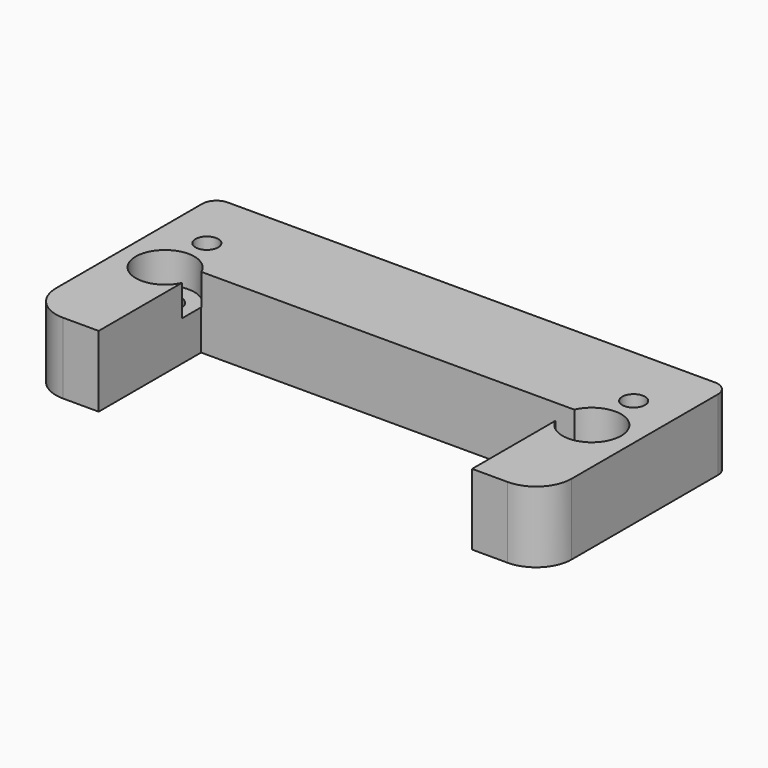
from build123d import *

# Parameters (mm, degrees)
F1_DEPTH       = 10
F3_D           = 3.2
F3_DEPTH       = 14.25
F3_TIP         = 0.9613769904
F4_R           = 5
F5_R           = 2
F7_D           = 4.4
F7_CBORE_D     = 8.25
F7_CBORE_DEPTH = 4.4


with BuildPart() as f1:
    # F0 (on Top) → F1 (new body)
    with BuildSketch(Plane.XY):
        Polygon((-36.25, 16.35), (-36.25, -16.35), (-26.25, -16.35), (-26.25, 1.65), (26.25, 1.65), (26.25, -16.35), (36.25, -16.35), (36.25, 16.35), align=None)
    extrude(amount=F1_DEPTH)

    # F3
    with Locations(Plane.XY.offset(10)):
        with Locations((-30, 7.35), (30, 7.35)):
            Hole(F3_D / 2, depth=F3_DEPTH)
            with Locations((0, 0, -(F3_DEPTH + F3_TIP / 2))):  # 118° drill point
                Cone(0, F3_D / 2, F3_TIP, mode=Mode.SUBTRACT)

    # F4
    f4_edges = [f1.edges().sort_by_distance(p)[0] for p in [
        (-36.25, -16.35, 5),
        (36.25, -16.35, 5),
    ]]
    fillet(f4_edges, radius=F4_R)

    # F5
    f5_edges = [f1.edges().sort_by_distance(p)[0] for p in [
        (36.25, 16.35, 5),
        (-36.25, 16.35, 5),
    ]]
    fillet(f5_edges, radius=F5_R)

    # F7 (through all)
    with Locations(Plane.XY.offset(10)):
        with Locations((-30, 0), (30, 0)):
            CounterBoreHole(F7_D / 2, F7_CBORE_D / 2, F7_CBORE_DEPTH)


solid = f1.part
